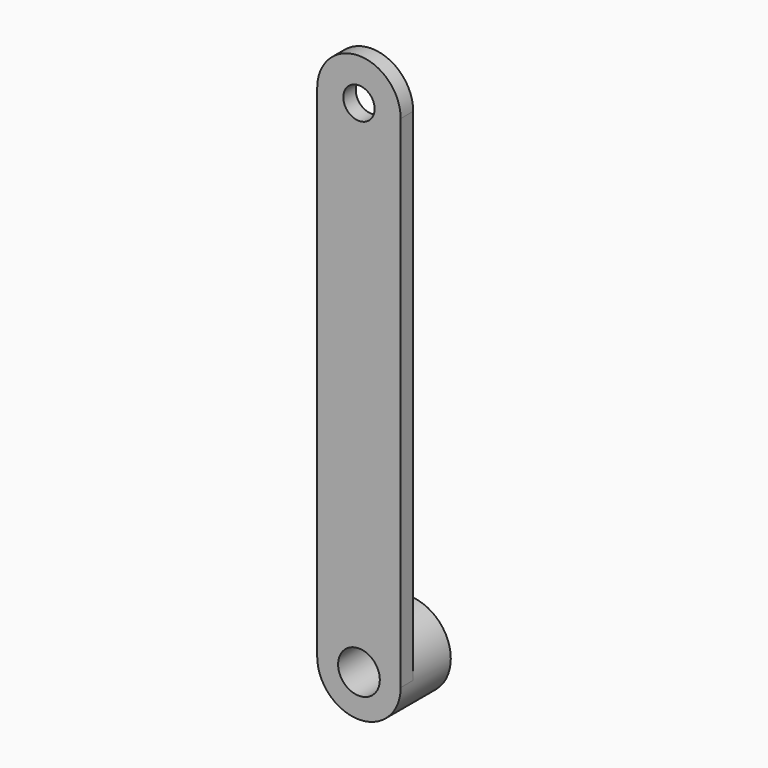
from build123d import *

# Parameters (mm, degrees)
F0_R     = 25.4
F0_R_2   = 12.7
F1_DEPTH = 38.1
F3_DEPTH = 9.525


with BuildPart() as f1:
    # F0 (on Front) → F1 (new body)
    with BuildSketch(Plane.XZ):
        Circle(F0_R)
        Circle(F0_R_2, mode=Mode.SUBTRACT)
    extrude(amount=-F1_DEPTH)

    # F2 (on Front) → F3 (join)
    with BuildSketch(Plane.XZ):
        with BuildLine():
            ThreePointArc((-12.7, 0), (0, 12.7), (12.7, 0))
            Line((12.7, 0), (25.4, 0))
            Line((25.4, 0), (25.4, 304.8))
            Line((25.4, 304.8), (9.525, 304.8))
            ThreePointArc((9.525, 304.8), (0, 295.275), (-9.525, 304.8))
            Line((-9.525, 304.8), (-25.4, 304.8))
            Line((-25.4, 304.8), (-25.4, 0))
            Line((-25.4, 0), (-12.7, 0))
        make_face()
        with BuildLine():
            Line((9.525, 304.8), (25.4, 304.8))
            ThreePointArc((25.4, 304.8), (0, 330.2), (-25.4, 304.8))
            Line((-25.4, 304.8), (-9.525, 304.8))
            ThreePointArc((-9.525, 304.8), (0, 314.325), (9.525, 304.8))
        make_face()
    extrude(amount=-F3_DEPTH)


solid = f1.part
